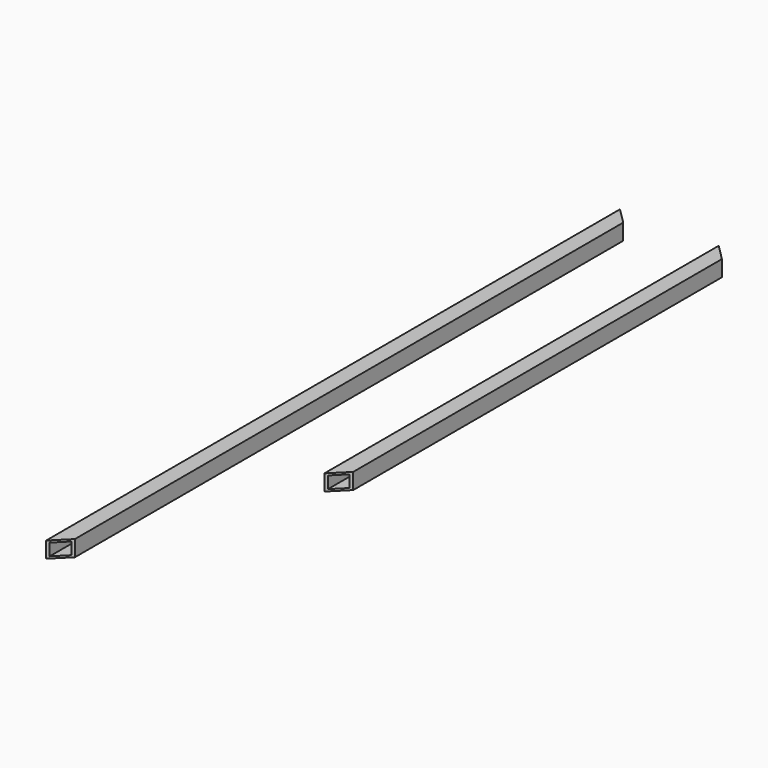
from build123d import *

# Parameters (mm, degrees)
F0_W     = 25.4
F0_H     = 25.4
F0_W_2   = 19.05
F0_H_2   = 19.05
F1_DEPTH = 1136.65
F2_DEPTH = 781.05
F4_DEPTH = 25.401


with BuildPart() as f1:
    # F0 (on Front) → F1 (new body)
    with BuildSketch(Plane.XZ):
        with Locations((-96.471835, 47.574904)):
            Rectangle(F0_W, F0_H)
        with Locations((-96.471835, 47.574904)):
            Rectangle(F0_W_2, F0_H_2, mode=Mode.SUBTRACT)
    extrude(amount=F1_DEPTH)


with BuildPart() as f2:
    # F0 (on Front) → F2 (new body)
    with BuildSketch(Plane.XZ):
        with Locations((59.952876, 47.574904)):
            Rectangle(F0_W, F0_H)
        with Locations((59.952876, 47.574904)):
            Rectangle(F0_W_2, F0_H_2, mode=Mode.SUBTRACT)
    extrude(amount=F2_DEPTH)


with BuildPart() as f4_tool:
    # F3 (on face) → F4 (new body, through all)
    with BuildSketch(Plane.XY.offset(60.274904)):
        Polygon((-83.771835, -1111.25), (-109.171835, -1136.65), (-83.771835, -1136.65), align=None)
        Polygon((72.652876, -755.65), (47.252876, -781.05), (72.652876, -781.05), align=None)
        Polygon((-83.771835, 0), (-109.171835, 0), (-83.771835, -25.4), align=None)
        Polygon((72.652876, 0), (47.252876, 0), (72.652876, -25.4), align=None)
    extrude(amount=-F4_DEPTH)


with BuildPart() as f1_1:
    add(f1.part)

    # F4: cut by f4_tool
    add(f4_tool.part, mode=Mode.SUBTRACT)


with BuildPart() as f2_1:
    add(f2.part)

    # F4: cut by f4_tool
    add(f4_tool.part, mode=Mode.SUBTRACT)


solid = Compound([f1_1.part, f2_1.part])
